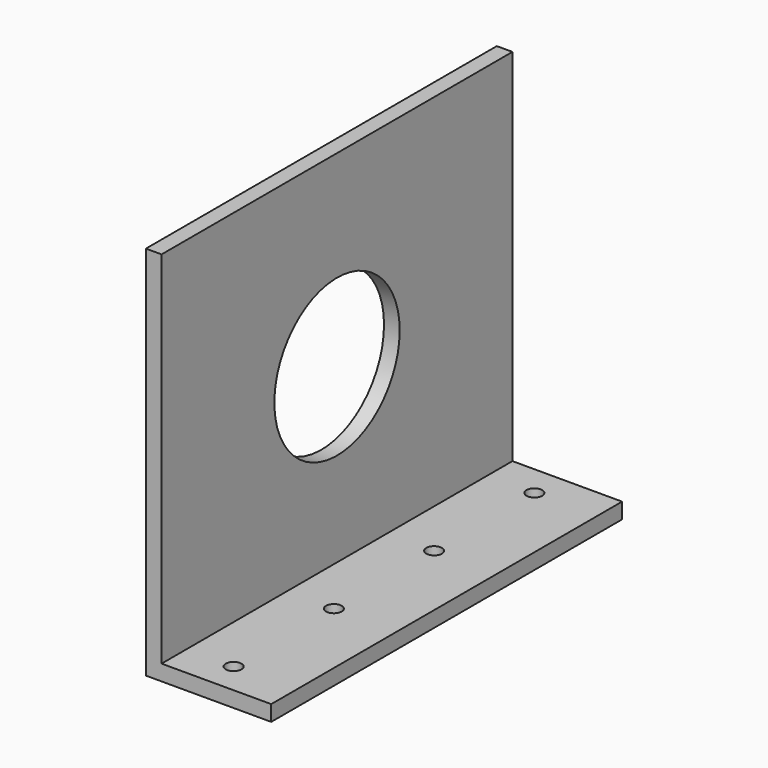
from build123d import *

# Parameters (mm, degrees)
F1_DEPTH = 88.9
F3_D     = 31.75
F5_D     = 3.175


with BuildPart() as f1:
    # F0 (on Front) → F1 (new body)
    with BuildSketch(Plane.XZ):
        Polygon((0, 76.2), (0, 0), (25.4, 0), (25.4, 3.175), (3.175, 3.175), (3.175, 76.2), align=None)
    extrude(amount=F1_DEPTH)

    # F3 (through all)
    with Locations(Plane(origin=(0, 0, 0), x_dir=(0, -1, 0), z_dir=(-1, 0, 0))):
        with Locations((44.45, 38.1)):
            Hole(F3_D / 2)

    # F5 (through all)
    with Locations(Plane(origin=(0, 0, 0), x_dir=(1, 0, 0), z_dir=(0, 0, -1))):
        with Locations((12.7, 82.55), (12.7, 57.15), (12.7, 31.75), (12.7, 6.35)):
            Hole(F5_D / 2)


solid = f1.part
